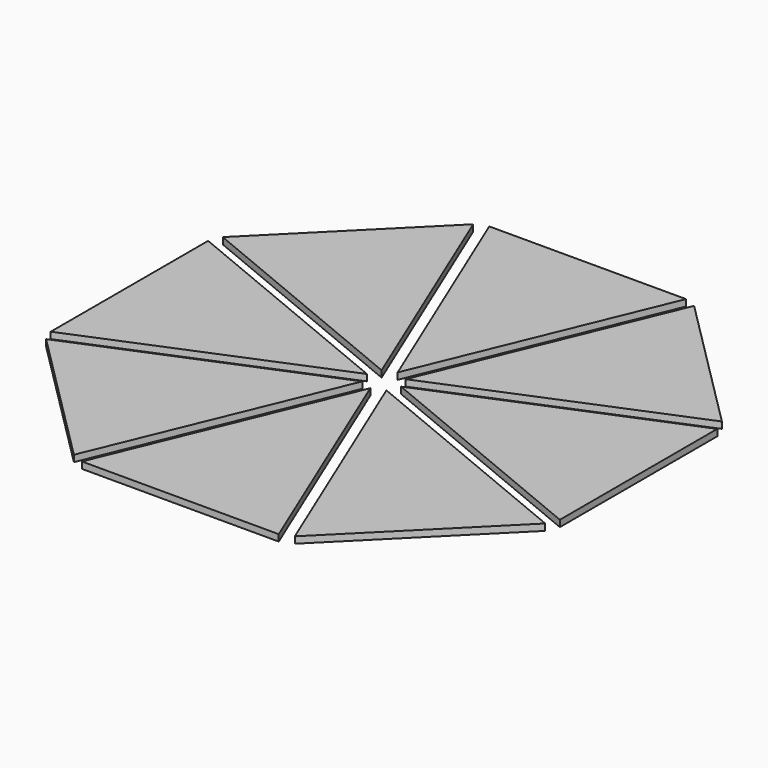
from build123d import *

# Parameters (mm, degrees)
F1_DEPTH = 1


with BuildPart() as f1:
    # F0 (on Top) → F1 (new body)
    with BuildSketch(Plane.XY):
        Polygon((15.071937, 39), (-15.071937, 39), (0, 2.613126), align=None)
        Polygon((-16.919696, 38.234633), (-38.234633, 16.919696), (-1.847759, 1.847759), align=None)
        Polygon((-39, 15.071937), (-39, -15.071937), (-2.613126, 0), align=None)
        Polygon((-38.234633, -16.919696), (-16.919696, -38.234633), (-1.847759, -1.847759), align=None)
        Polygon((-15.071937, -39), (15.071937, -39), (0, -2.613126), align=None)
        Polygon((16.919696, -38.234633), (38.234633, -16.919696), (1.847759, -1.847759), align=None)
        Polygon((39, -15.071937), (39, 15.071937), (2.613126, 0), align=None)
        Polygon((38.234633, 16.919696), (16.919696, 38.234633), (1.847759, 1.847759), align=None)
    extrude(amount=F1_DEPTH)


solid = f1.part
